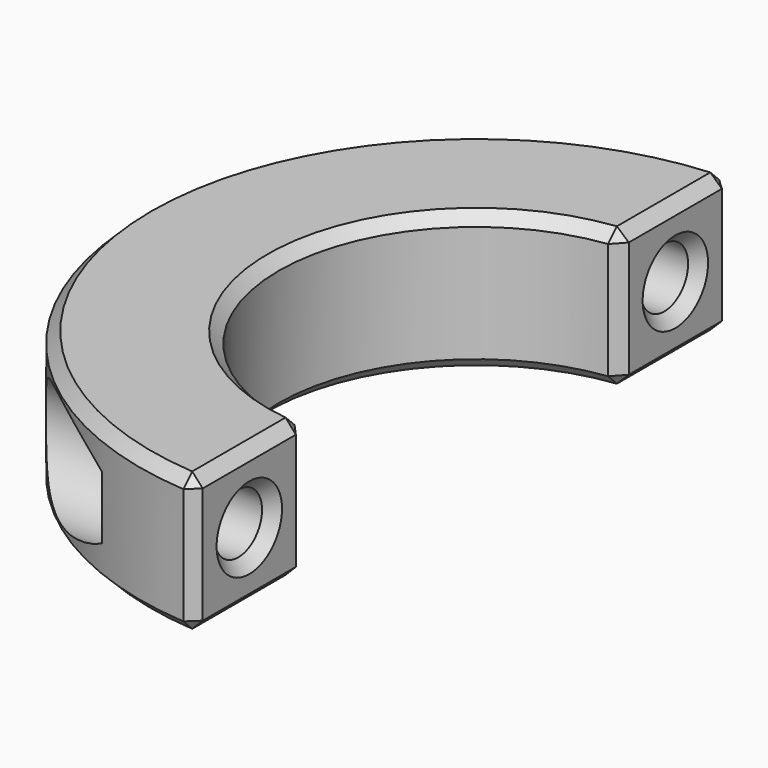
from build123d import *

# Parameters (mm, degrees)
PAD_DEPTH       = 10
SKETCH001_R     = 2.15
POCKET_DEPTH    = 23.236509
SKETCH002_R     = 4
POCKET001_DEPTH = 15.236509
SKETCH003_R     = 2.15
POCKET002_DEPTH = 23.236509
POCKET003_DEPTH = 15.236509
CHAMFER_SIZE    = 0.8


with BuildPart() as part:
    # Sketch → Pad (new body)
    with BuildSketch(Plane.XY):
        with BuildLine():
            Line((-1, 14.214869), (-1, 24.214869))
            ThreePointArc((-1, 24.214869), (-24.235509, 0), (-1, -24.214869))
            Line((-1, -24.214869), (-1, -14.214869))
            ThreePointArc((-1, 14.214869), (-14.25, 0), (-1, -14.214869))
        make_face()
    extrude(amount=PAD_DEPTH)

    # Sketch001 (on Face3 of Pad) → Pocket (cut, through all)
    with BuildSketch(Plane.YZ.offset(-1)):
        with Locations((-19.214869, 5)):
            Circle(SKETCH001_R)
    extrude(amount=-POCKET_DEPTH, mode=Mode.SUBTRACT)

    # Sketch002 (on DatumPlane) → Pocket001 (cut, through all)
    with BuildSketch(Plane(origin=(-9, -19.214869, 5), x_dir=(0, -1, 0), z_dir=(-1, 0, 0))):
        Circle(SKETCH002_R)
    extrude(amount=POCKET001_DEPTH, mode=Mode.SUBTRACT)

    # Sketch003 (on Face1 of Pocket001) → Pocket002 (cut, through all)
    with BuildSketch(Plane.YZ.offset(-1)):
        with Locations((19.214869, 5)):
            Circle(SKETCH003_R)
    extrude(amount=-POCKET002_DEPTH, mode=Mode.SUBTRACT)

    # Sketch004 (on DatumPlane) → Pocket003 (cut, through all)
    with BuildSketch(Plane(origin=(-9, -19.214869, 5), x_dir=(0, -1, 0), z_dir=(-1, 0, 0))):
        Polygon((-41.929738, 2.020726), (-41.929738, -2.020726), (-38.429738, -4.041452), (-34.929738, -2.020726), (-34.929738, 2.020726), (-38.429738, 4.041452), align=None)
    extrude(amount=POCKET003_DEPTH, mode=Mode.SUBTRACT)

    # Chamfer
    chamfer_edges = [part.edges().sort_by_distance(p)[0] for p in [
        (-1, 19.214869, 10),
        (-24.235509, 0, 10),
        (-1, -19.214869, 10),
        (-14.25, 0, 10),
        (-1, 19.214869, 0),
        (-24.235509, 0, 0),
        (-1, -19.214869, 0),
        (-14.25, 0, 0),
        (-1, 14.214869, 5),
        (-1, 24.214869, 5),
        (-1, 17.064869, 5),
        (-1, -24.214869, 5),
        (-1, -14.214869, 5),
        (-1, -21.364869, 5),
    ]]
    chamfer(chamfer_edges, length=CHAMFER_SIZE)


solid = part.part
